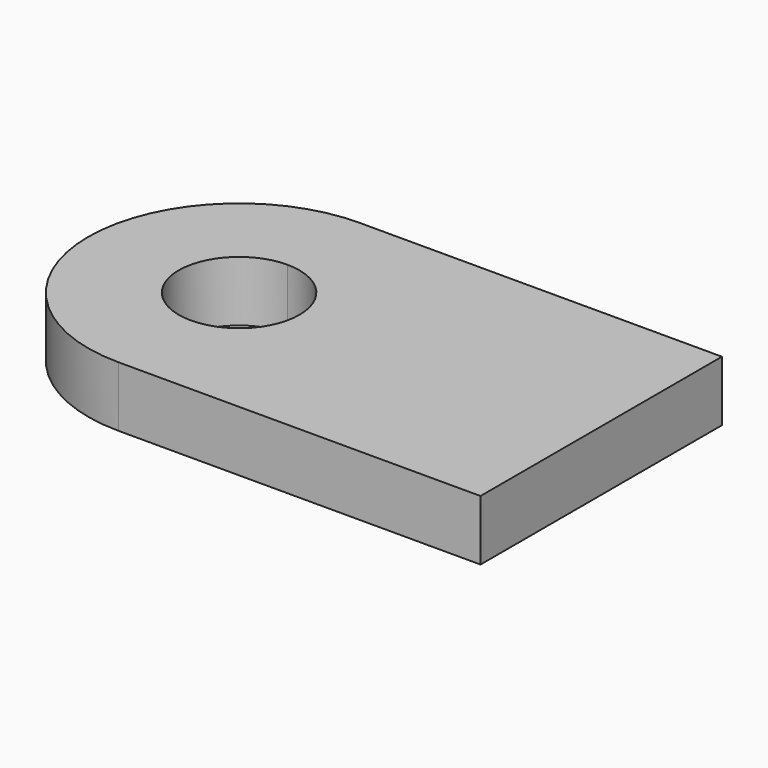
from build123d import *

# Parameters (mm, degrees)
F1_DEPTH = 12.7


with BuildPart() as f1:
    # F0 (on Top) → F1 (new body)
    with BuildSketch(Plane.XY):
        with BuildLine():
            ThreePointArc((-6.35, 0), (-15.6493596973, 22.4506403027), (-38.1, 31.75))
            Line((-38.1, 31.75), (-38.1, 12.7))
            ThreePointArc((-38.1, 12.7), (-29.1197438789, 8.9802561211), (-25.4, 0))
            ThreePointArc((-25.4, 0), (-29.1197438789, -8.9802561211), (-38.1, -12.7))
            Line((-38.1, -12.7), (-38.1, -31.75))
            ThreePointArc((-38.1, -31.75), (-15.6493596973, -22.4506403027), (-6.35, 0))
        make_face()
        with BuildLine():
            Line((38.1, 31.75), (-38.1, 31.75))
            ThreePointArc((-38.1, 31.75), (-15.6493596973, 22.4506403027), (-6.35, 0))
            ThreePointArc((-6.35, 0), (-15.6493596973, -22.4506403027), (-38.1, -31.75))
            Line((-38.1, -31.75), (38.1, -31.75))
            Line((38.1, -31.75), (38.1, 31.75))
        make_face()
        with BuildLine():
            Line((-38.1, 12.7), (-38.1, 31.75))
            ThreePointArc((-38.1, 31.75), (-69.85, 0), (-38.1, -31.75))
            Line((-38.1, -31.75), (-38.1, -12.7))
            ThreePointArc((-38.1, -12.7), (-50.8, 0), (-38.1, 12.7))
        make_face()
    extrude(amount=F1_DEPTH)


solid = f1.part
